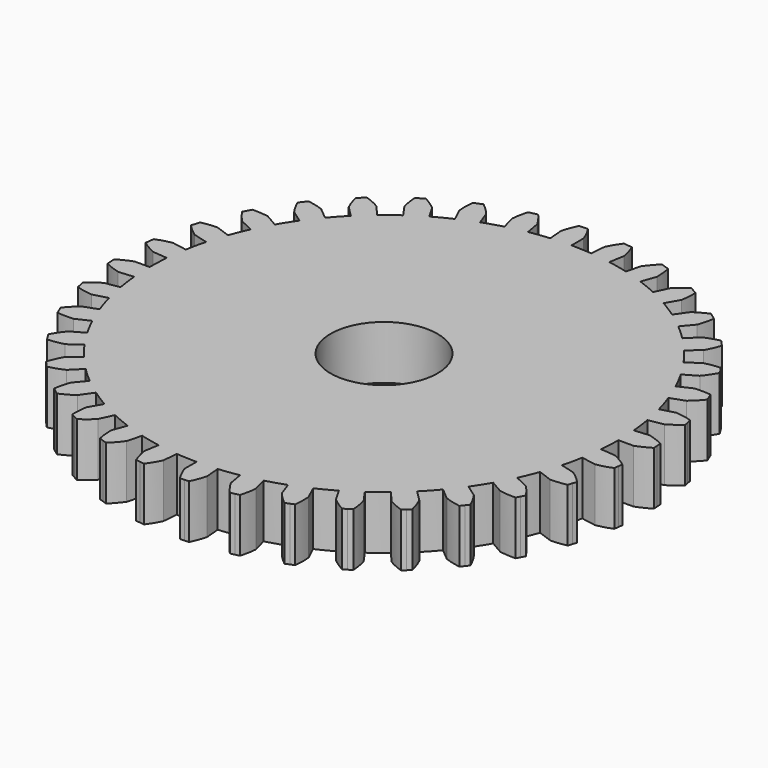
from build123d import *

# Parameters (mm, degrees)
F0_R     = 6.35
F1_DEPTH = 6.35
F2_DEPTH = 97.18073


with BuildPart() as f1:
    # F0 (on Top) → F1 (new body)
    with BuildSketch(Plane.XY):
        with BuildLine():
            Line((0, 27.800996), (0, 29.585202))
            ThreePointArc((0, 29.585202), (-0.378327, 30.478797), (-0.846404, 31.328825))
            Line((-0.846404, 31.328825), (-1.366665, 31.30611))
            Line((-1.366665, 31.30611), (-1.367043, 31.306093))
            Line((-1.367043, 31.306093), (-1.887304, 31.283378))
            ThreePointArc((-1.887304, 31.283378), (-2.279515, 30.395789), (-2.57852, 29.472621))
            Line((-2.57852, 29.472621), (-2.423016, 27.695205))
            ThreePointArc((-2.423016, 27.695205), (-3.628758, 27.563154), (-4.827592, 27.378636))
            Line((-4.827592, 27.378636), (-5.137416, 29.135736))
            ThreePointArc((-5.137416, 29.135736), (-5.665166, 29.95006), (-6.273738, 30.705893))
            Line((-6.273738, 30.705893), (-6.782151, 30.593181))
            Line((-6.782151, 30.593181), (-6.78252, 30.593099))
            Line((-6.78252, 30.593099), (-7.290933, 30.480386))
            ThreePointArc((-7.290933, 30.480386), (-7.523058, 29.538175), (-7.657214, 28.577111))
            Line((-7.657214, 28.577111), (-7.195427, 26.8537))
            Line((-7.195427, 26.8537), (-9.508501, 26.124391))
            Line((-9.508501, 26.124391), (-10.118735, 27.800996))
            ThreePointArc((-10.118735, 27.800996), (-10.779873, 28.511305), (-11.510448, 29.149978))
            Line((-11.510448, 29.149978), (-11.991565, 28.950693))
            Line((-11.991565, 28.950693), (-11.991914, 28.950549))
            Line((-11.991914, 28.950549), (-12.473031, 28.751263))
            ThreePointArc((-12.473031, 28.751263), (-12.538016, 27.783059), (-12.503247, 26.813299))
            Line((-12.503247, 26.813299), (-11.749209, 25.196259))
            ThreePointArc((-11.749209, 25.196259), (-12.837071, 24.659784), (-13.900498, 24.076369))
            Line((-13.900498, 24.076369), (-14.792601, 25.621536))
            ThreePointArc((-14.792601, 25.621536), (-15.567039, 26.206249), (-16.39742, 26.708356))
            Line((-16.39742, 26.708356), (-16.836621, 26.428554))
            Line((-16.836621, 26.428554), (-16.83694, 26.428351))
            Line((-16.83694, 26.428351), (-17.276142, 26.148548))
            ThreePointArc((-17.276142, 26.148548), (-17.172013, 25.183768), (-16.969375, 24.234779))
            Line((-16.969375, 24.234779), (-15.945996, 22.773243))
            ThreePointArc((-15.945996, 22.773243), (-16.924174, 22.056013), (-17.870136, 21.296798))
            Line((-17.870136, 21.296798), (-19.017001, 22.663579))
            ThreePointArc((-19.017001, 22.663579), (-19.881208, 23.104929), (-20.786163, 23.455214))
            Line((-20.786163, 23.455214), (-21.170106, 23.103396))
            Line((-21.170106, 23.103396), (-21.170384, 23.103141))
            Line((-21.170384, 23.103141), (-21.554327, 22.751322))
            ThreePointArc((-21.554327, 22.751322), (-21.284247, 21.819281), (-20.919897, 20.919897))
            Line((-20.919897, 20.919897), (-19.658273, 19.658273))
            ThreePointArc((-19.658273, 19.658273), (-20.497044, 18.782081), (-21.296798, 17.870136))
            Line((-21.296798, 17.870136), (-22.663579, 19.017001))
            ThreePointArc((-22.663579, 19.017001), (-23.591297, 19.301578), (-24.54333, 19.489397))
            Line((-24.54333, 19.489397), (-24.860347, 19.076253))
            Line((-24.860347, 19.076253), (-24.860577, 19.075953))
            Line((-24.860577, 19.075953), (-25.177594, 18.662809))
            ThreePointArc((-25.177594, 18.662809), (-24.74977, 17.791827), (-24.234779, 16.969375))
            Line((-24.234779, 16.969375), (-22.773243, 15.945996))
            ThreePointArc((-22.773243, 15.945996), (-23.447122, 14.937464), (-24.076369, 13.900498))
            Line((-24.076369, 13.900498), (-25.621536, 14.792601))
            ThreePointArc((-25.621536, 14.792601), (-26.584576, 14.911758), (-27.55476, 14.931405))
            Line((-27.55476, 14.931405), (-27.795219, 14.469488))
            Line((-27.795219, 14.469488), (-27.795393, 14.469153))
            Line((-27.795393, 14.469153), (-28.035852, 14.007236))
            ThreePointArc((-28.035852, 14.007236), (-27.463283, 13.223777), (-26.813299, 12.503247))
            Line((-26.813299, 12.503247), (-25.196259, 11.749209))
            ThreePointArc((-25.196259, 11.749209), (-25.684771, 10.638981), (-26.124391, 9.508501))
            Line((-26.124391, 9.508501), (-27.800996, 10.118735))
            ThreePointArc((-27.800996, 10.118735), (-28.770096, 10.068852), (-29.728953, 9.91973))
            Line((-29.728953, 9.91973), (-29.885547, 9.423075))
            Line((-29.885547, 9.423075), (-29.885661, 9.422714))
            Line((-29.885661, 9.422714), (-30.042255, 8.92606))
            ThreePointArc((-30.042255, 8.92606), (-29.342339, 8.253929), (-28.577111, 7.657214))
            Line((-28.577111, 7.657214), (-26.8537, 7.195427))
            ThreePointArc((-26.8537, 7.195427), (-27.142001, 6.017237), (-27.378636, 4.827592))
            Line((-27.378636, 4.827592), (-29.135736, 5.137416))
            ThreePointArc((-29.135736, 5.137416), (-30.081451, 4.920009), (-30.999846, 4.606648))
            Line((-30.999846, 4.606648), (-31.067818, 4.090347))
            Line((-31.067818, 4.090347), (-31.067868, 4.089972))
            Line((-31.067868, 4.089972), (-31.13584, 3.57367))
            ThreePointArc((-31.13584, 3.57367), (-30.329843, 3.033289), (-29.472621, 2.57852))
            Line((-29.472621, 2.57852), (-27.695205, 2.423016))
            ThreePointArc((-27.695205, 2.423016), (-27.774535, 1.212662), (-27.800996, 0))
            Line((-27.800996, 0), (-29.585202, 0))
            ThreePointArc((-29.585202, 0), (-30.478797, -0.378327), (-31.328825, -0.846404))
            Line((-31.328825, -0.846404), (-31.30611, -1.366665))
            Line((-31.30611, -1.366665), (-31.306093, -1.367043))
            Line((-31.306093, -1.367043), (-31.283378, -1.887304))
            ThreePointArc((-31.283378, -1.887304), (-30.395789, -2.279515), (-29.472621, -2.57852))
            Line((-29.472621, -2.57852), (-27.695205, -2.423016))
            ThreePointArc((-27.695205, -2.423016), (-27.563154, -3.628758), (-27.378636, -4.827592))
            Line((-27.378636, -4.827592), (-29.135736, -5.137416))
            ThreePointArc((-29.135736, -5.137416), (-29.95006, -5.665166), (-30.705893, -6.273738))
            Line((-30.705893, -6.273738), (-30.593181, -6.782151))
            Line((-30.593181, -6.782151), (-30.593099, -6.78252))
            Line((-30.593099, -6.78252), (-30.480386, -7.290933))
            ThreePointArc((-30.480386, -7.290933), (-29.538175, -7.523058), (-28.577111, -7.657214))
            Line((-28.577111, -7.657214), (-26.8537, -7.195427))
            ThreePointArc((-26.8537, -7.195427), (-26.514281, -8.359921), (-26.124391, -9.508501))
            Line((-26.124391, -9.508501), (-27.800996, -10.118735))
            ThreePointArc((-27.800996, -10.118735), (-28.511305, -10.779873), (-29.149978, -11.510448))
            Line((-29.149978, -11.510448), (-28.950693, -11.991565))
            Line((-28.950693, -11.991565), (-28.950549, -11.991914))
            Line((-28.950549, -11.991914), (-28.751263, -12.473031))
            ThreePointArc((-28.751263, -12.473031), (-27.783059, -12.538016), (-26.813299, -12.503247))
            Line((-26.813299, -12.503247), (-25.196259, -11.749209))
            ThreePointArc((-25.196259, -11.749209), (-24.659784, -12.837071), (-24.076369, -13.900498))
            Line((-24.076369, -13.900498), (-25.621536, -14.792601))
            ThreePointArc((-25.621536, -14.792601), (-26.206249, -15.567039), (-26.708356, -16.39742))
            Line((-26.708356, -16.39742), (-26.428554, -16.836621))
            Line((-26.428554, -16.836621), (-26.428351, -16.83694))
            Line((-26.428351, -16.83694), (-26.148548, -17.276142))
            ThreePointArc((-26.148548, -17.276142), (-25.183768, -17.172013), (-24.234779, -16.969375))
            Line((-24.234779, -16.969375), (-22.773243, -15.945996))
            ThreePointArc((-22.773243, -15.945996), (-22.056013, -16.924174), (-21.296798, -17.870136))
            Line((-21.296798, -17.870136), (-22.663579, -19.017001))
            ThreePointArc((-22.663579, -19.017001), (-23.104929, -19.881208), (-23.455214, -20.786163))
            Line((-23.455214, -20.786163), (-23.103396, -21.170106))
            Line((-23.103396, -21.170106), (-23.103141, -21.170384))
            Line((-23.103141, -21.170384), (-22.751322, -21.554327))
            ThreePointArc((-22.751322, -21.554327), (-21.819281, -21.284247), (-20.919897, -20.919897))
            Line((-20.919897, -20.919897), (-19.658273, -19.658273))
            ThreePointArc((-19.658273, -19.658273), (-18.782081, -20.497044), (-17.870136, -21.296798))
            Line((-17.870136, -21.296798), (-19.017001, -22.663579))
            ThreePointArc((-19.017001, -22.663579), (-19.301578, -23.591297), (-19.489397, -24.54333))
            Line((-19.489397, -24.54333), (-19.076253, -24.860347))
            Line((-19.076253, -24.860347), (-19.075953, -24.860577))
            Line((-19.075953, -24.860577), (-18.662809, -25.177594))
            ThreePointArc((-18.662809, -25.177594), (-17.791827, -24.74977), (-16.969375, -24.234779))
            Line((-16.969375, -24.234779), (-15.945996, -22.773243))
            ThreePointArc((-15.945996, -22.773243), (-14.937464, -23.447122), (-13.900498, -24.076369))
            Line((-13.900498, -24.076369), (-14.792601, -25.621536))
            ThreePointArc((-14.792601, -25.621536), (-14.911758, -26.584576), (-14.931405, -27.55476))
            Line((-14.931405, -27.55476), (-14.469488, -27.795219))
            Line((-14.469488, -27.795219), (-14.469153, -27.795393))
            Line((-14.469153, -27.795393), (-14.007236, -28.035852))
            ThreePointArc((-14.007236, -28.035852), (-13.223777, -27.463283), (-12.503247, -26.813299))
            Line((-12.503247, -26.813299), (-11.749209, -25.196259))
            ThreePointArc((-11.749209, -25.196259), (-10.638981, -25.684771), (-9.508501, -26.124391))
            Line((-9.508501, -26.124391), (-10.118735, -27.800996))
            ThreePointArc((-10.118735, -27.800996), (-10.068852, -28.770096), (-9.91973, -29.728953))
            Line((-9.91973, -29.728953), (-9.423075, -29.885547))
            Line((-9.423075, -29.885547), (-9.422714, -29.885661))
            Line((-9.422714, -29.885661), (-8.92606, -30.042255))
            ThreePointArc((-8.92606, -30.042255), (-8.253929, -29.342339), (-7.657214, -28.577111))
            Line((-7.657214, -28.577111), (-7.195427, -26.8537))
            ThreePointArc((-7.195427, -26.8537), (-6.017237, -27.142001), (-4.827592, -27.378636))
            Line((-4.827592, -27.378636), (-5.137416, -29.135736))
            ThreePointArc((-5.137416, -29.135736), (-4.920009, -30.081451), (-4.606648, -30.999846))
            Line((-4.606648, -30.999846), (-4.090347, -31.067818))
            Line((-4.090347, -31.067818), (-4.089972, -31.067868))
            Line((-4.089972, -31.067868), (-3.57367, -31.13584))
            ThreePointArc((-3.57367, -31.13584), (-3.033289, -30.329843), (-2.57852, -29.472621))
            Line((-2.57852, -29.472621), (-2.423016, -27.695205))
            ThreePointArc((-2.423016, -27.695205), (-1.212662, -27.774535), (0, -27.800996))
            Line((0, -27.800996), (0, -29.585202))
            ThreePointArc((0, -29.585202), (0.378327, -30.478797), (0.846404, -31.328825))
            Line((0.846404, -31.328825), (1.366665, -31.30611))
            Line((1.366665, -31.30611), (1.367043, -31.306093))
            Line((1.367043, -31.306093), (1.887304, -31.283378))
            ThreePointArc((1.887304, -31.283378), (2.279515, -30.395789), (2.57852, -29.472621))
            Line((2.57852, -29.472621), (2.423016, -27.695205))
            ThreePointArc((2.423016, -27.695205), (3.628758, -27.563154), (4.827592, -27.378636))
            Line((4.827592, -27.378636), (5.137416, -29.135736))
            ThreePointArc((5.137416, -29.135736), (5.665166, -29.95006), (6.273738, -30.705893))
            Line((6.273738, -30.705893), (6.782151, -30.593181))
            Line((6.782151, -30.593181), (6.78252, -30.593099))
            Line((6.78252, -30.593099), (7.290933, -30.480386))
            ThreePointArc((7.290933, -30.480386), (7.523058, -29.538175), (7.657214, -28.577111))
            Line((7.657214, -28.577111), (7.195427, -26.8537))
            ThreePointArc((7.195427, -26.8537), (8.359921, -26.514281), (9.508501, -26.124391))
            Line((9.508501, -26.124391), (10.118735, -27.800996))
            ThreePointArc((10.118735, -27.800996), (10.779873, -28.511305), (11.510448, -29.149978))
            Line((11.510448, -29.149978), (11.991565, -28.950693))
            Line((11.991565, -28.950693), (11.991914, -28.950549))
            Line((11.991914, -28.950549), (12.473031, -28.751263))
            ThreePointArc((12.473031, -28.751263), (12.538016, -27.783059), (12.503247, -26.813299))
            Line((12.503247, -26.813299), (11.749209, -25.196259))
            ThreePointArc((11.749209, -25.196259), (12.837071, -24.659784), (13.900498, -24.076369))
            Line((13.900498, -24.076369), (14.792601, -25.621536))
            ThreePointArc((14.792601, -25.621536), (15.567039, -26.206249), (16.39742, -26.708356))
            Line((16.39742, -26.708356), (16.836621, -26.428554))
            Line((16.836621, -26.428554), (16.83694, -26.428351))
            Line((16.83694, -26.428351), (17.276142, -26.148548))
            ThreePointArc((17.276142, -26.148548), (17.172013, -25.183768), (16.969375, -24.234779))
            Line((16.969375, -24.234779), (15.945996, -22.773243))
            ThreePointArc((15.945996, -22.773243), (16.924174, -22.056013), (17.870136, -21.296798))
            Line((17.870136, -21.296798), (19.017001, -22.663579))
            ThreePointArc((19.017001, -22.663579), (19.881208, -23.104929), (20.786163, -23.455214))
            Line((20.786163, -23.455214), (21.170106, -23.103396))
            Line((21.170106, -23.103396), (21.170384, -23.103141))
            Line((21.170384, -23.103141), (21.554327, -22.751322))
            ThreePointArc((21.554327, -22.751322), (21.284247, -21.819281), (20.919897, -20.919897))
            Line((20.919897, -20.919897), (19.658273, -19.658273))
            ThreePointArc((19.658273, -19.658273), (20.497044, -18.782081), (21.296798, -17.870136))
            Line((21.296798, -17.870136), (22.663579, -19.017001))
            ThreePointArc((22.663579, -19.017001), (23.591297, -19.301578), (24.54333, -19.489397))
            Line((24.54333, -19.489397), (24.860347, -19.076253))
            Line((24.860347, -19.076253), (24.860577, -19.075953))
            Line((24.860577, -19.075953), (25.177594, -18.662809))
            ThreePointArc((25.177594, -18.662809), (24.74977, -17.791827), (24.234779, -16.969375))
            Line((24.234779, -16.969375), (22.773243, -15.945996))
            ThreePointArc((22.773243, -15.945996), (23.447122, -14.937464), (24.076369, -13.900498))
            Line((24.076369, -13.900498), (25.621536, -14.792601))
            ThreePointArc((25.621536, -14.792601), (26.584576, -14.911758), (27.55476, -14.931405))
            Line((27.55476, -14.931405), (27.795219, -14.469488))
            Line((27.795219, -14.469488), (27.795393, -14.469153))
            Line((27.795393, -14.469153), (28.035852, -14.007236))
            ThreePointArc((28.035852, -14.007236), (27.463283, -13.223777), (26.813299, -12.503247))
            Line((26.813299, -12.503247), (25.196259, -11.749209))
            ThreePointArc((25.196259, -11.749209), (25.684771, -10.638981), (26.124391, -9.508501))
            Line((26.124391, -9.508501), (27.800996, -10.118735))
            ThreePointArc((27.800996, -10.118735), (28.770096, -10.068852), (29.728953, -9.91973))
            Line((29.728953, -9.91973), (29.885547, -9.423075))
            Line((29.885547, -9.423075), (29.885661, -9.422714))
            Line((29.885661, -9.422714), (30.042255, -8.92606))
            ThreePointArc((30.042255, -8.92606), (29.342339, -8.253929), (28.577111, -7.657214))
            Line((28.577111, -7.657214), (26.8537, -7.195427))
            ThreePointArc((26.8537, -7.195427), (27.142001, -6.017237), (27.378636, -4.827592))
            Line((27.378636, -4.827592), (29.135736, -5.137416))
            ThreePointArc((29.135736, -5.137416), (30.081451, -4.920009), (30.999846, -4.606648))
            Line((30.999846, -4.606648), (31.067818, -4.090347))
            Line((31.067818, -4.090347), (31.067868, -4.089972))
            Line((31.067868, -4.089972), (31.13584, -3.57367))
            ThreePointArc((31.13584, -3.57367), (30.329843, -3.033289), (29.472621, -2.57852))
            Line((29.472621, -2.57852), (27.695205, -2.423016))
            ThreePointArc((27.695205, -2.423016), (27.774535, -1.212662), (27.800996, 0))
            Line((27.800996, 0), (29.585202, 0))
            ThreePointArc((29.585202, 0), (30.478797, 0.378327), (31.328825, 0.846404))
            Line((31.328825, 0.846404), (31.30611, 1.366665))
            Line((31.30611, 1.366665), (31.306093, 1.367043))
            Line((31.306093, 1.367043), (31.283378, 1.887304))
            ThreePointArc((31.283378, 1.887304), (30.395789, 2.279515), (29.472621, 2.57852))
            Line((29.472621, 2.57852), (27.695205, 2.423016))
            ThreePointArc((27.695205, 2.423016), (27.563154, 3.628758), (27.378636, 4.827592))
            Line((27.378636, 4.827592), (29.135736, 5.137416))
            ThreePointArc((29.135736, 5.137416), (29.95006, 5.665166), (30.705893, 6.273738))
            Line((30.705893, 6.273738), (30.593181, 6.782151))
            Line((30.593181, 6.782151), (30.593099, 6.78252))
            Line((30.593099, 6.78252), (30.480386, 7.290933))
            ThreePointArc((30.480386, 7.290933), (29.538175, 7.523058), (28.577111, 7.657214))
            Line((28.577111, 7.657214), (26.8537, 7.195427))
            ThreePointArc((26.8537, 7.195427), (26.514281, 8.359921), (26.124391, 9.508501))
            Line((26.124391, 9.508501), (27.800996, 10.118735))
            ThreePointArc((27.800996, 10.118735), (28.511305, 10.779873), (29.149978, 11.510448))
            Line((29.149978, 11.510448), (28.950693, 11.991565))
            Line((28.950693, 11.991565), (28.950549, 11.991914))
            Line((28.950549, 11.991914), (28.751263, 12.473031))
            ThreePointArc((28.751263, 12.473031), (27.783059, 12.538016), (26.813299, 12.503247))
            Line((26.813299, 12.503247), (25.196259, 11.749209))
            ThreePointArc((25.196259, 11.749209), (24.659784, 12.837071), (24.076369, 13.900498))
            Line((24.076369, 13.900498), (25.621536, 14.792601))
            ThreePointArc((25.621536, 14.792601), (26.206249, 15.567039), (26.708356, 16.39742))
            Line((26.708356, 16.39742), (26.428554, 16.836621))
            Line((26.428554, 16.836621), (26.428351, 16.83694))
            Line((26.428351, 16.83694), (26.148548, 17.276142))
            ThreePointArc((26.148548, 17.276142), (25.183768, 17.172013), (24.234779, 16.969375))
            Line((24.234779, 16.969375), (22.773243, 15.945996))
            ThreePointArc((22.773243, 15.945996), (22.056013, 16.924174), (21.296798, 17.870136))
            Line((21.296798, 17.870136), (22.663579, 19.017001))
            ThreePointArc((22.663579, 19.017001), (23.104929, 19.881208), (23.455214, 20.786163))
            Line((23.455214, 20.786163), (23.103396, 21.170106))
            Line((23.103396, 21.170106), (23.103141, 21.170384))
            Line((23.103141, 21.170384), (22.751322, 21.554327))
            ThreePointArc((22.751322, 21.554327), (21.819281, 21.284247), (20.919897, 20.919897))
            Line((20.919897, 20.919897), (19.658273, 19.658273))
            ThreePointArc((19.658273, 19.658273), (18.782081, 20.497044), (17.870136, 21.296798))
            Line((17.870136, 21.296798), (19.017001, 22.663579))
            ThreePointArc((19.017001, 22.663579), (19.301578, 23.591297), (19.489397, 24.54333))
            Line((19.489397, 24.54333), (19.076253, 24.860347))
            Line((19.076253, 24.860347), (19.075953, 24.860577))
            Line((19.075953, 24.860577), (18.662809, 25.177594))
            ThreePointArc((18.662809, 25.177594), (17.791827, 24.74977), (16.969375, 24.234779))
            Line((16.969375, 24.234779), (15.945996, 22.773243))
            ThreePointArc((15.945996, 22.773243), (14.937464, 23.447122), (13.900498, 24.076369))
            Line((13.900498, 24.076369), (14.792601, 25.621536))
            ThreePointArc((14.792601, 25.621536), (14.911758, 26.584576), (14.931405, 27.55476))
            Line((14.931405, 27.55476), (14.469488, 27.795219))
            Line((14.469488, 27.795219), (14.469153, 27.795393))
            Line((14.469153, 27.795393), (14.007236, 28.035852))
            ThreePointArc((14.007236, 28.035852), (13.223777, 27.463283), (12.503247, 26.813299))
            Line((12.503247, 26.813299), (11.749209, 25.196259))
            ThreePointArc((11.749209, 25.196259), (10.638981, 25.684771), (9.508501, 26.124391))
            Line((9.508501, 26.124391), (10.118735, 27.800996))
            ThreePointArc((10.118735, 27.800996), (10.068852, 28.770096), (9.91973, 29.728953))
            Line((9.91973, 29.728953), (9.423075, 29.885547))
            Line((9.423075, 29.885547), (9.422714, 29.885661))
            Line((9.422714, 29.885661), (8.92606, 30.042255))
            ThreePointArc((8.92606, 30.042255), (8.253929, 29.342339), (7.657214, 28.577111))
            Line((7.657214, 28.577111), (7.195427, 26.8537))
            ThreePointArc((7.195427, 26.8537), (6.017237, 27.142001), (4.827592, 27.378636))
            Line((4.827592, 27.378636), (5.137416, 29.135736))
            ThreePointArc((5.137416, 29.135736), (4.920009, 30.081451), (4.606648, 30.999846))
            Line((4.606648, 30.999846), (4.090347, 31.067818))
            Line((4.090347, 31.067818), (4.089972, 31.067868))
            Line((4.089972, 31.067868), (3.57367, 31.13584))
            ThreePointArc((3.57367, 31.13584), (3.033289, 30.329843), (2.57852, 29.472621))
            Line((2.57852, 29.472621), (2.423016, 27.695205))
            ThreePointArc((2.423016, 27.695205), (1.212662, 27.774535), (0, 27.800996))
        make_face()
        Circle(F0_R, mode=Mode.SUBTRACT)
        with BuildLine():
            Line((-9.508501, 26.124391), (-7.195427, 26.8537))
            ThreePointArc((-7.195427, 26.8537), (-8.359921, 26.514281), (-9.508501, 26.124391))
        make_face()
        with BuildLine():
            Line((0, 27.800996), (0, 29.585202))
            ThreePointArc((0, 29.585202), (-0.378327, 30.478797), (-0.846404, 31.328825))
            Line((-0.846404, 31.328825), (-1.366665, 31.30611))
            Line((-1.366665, 31.30611), (-1.367043, 31.306093))
            Line((-1.367043, 31.306093), (-1.887304, 31.283378))
            ThreePointArc((-1.887304, 31.283378), (-2.279515, 30.395789), (-2.57852, 29.472621))
            Line((-2.57852, 29.472621), (-2.423016, 27.695205))
            ThreePointArc((-2.423016, 27.695205), (-3.628758, 27.563154), (-4.827592, 27.378636))
            Line((-4.827592, 27.378636), (-5.137416, 29.135736))
            ThreePointArc((-5.137416, 29.135736), (-5.665166, 29.95006), (-6.273738, 30.705893))
            Line((-6.273738, 30.705893), (-6.782151, 30.593181))
            Line((-6.782151, 30.593181), (-6.78252, 30.593099))
            Line((-6.78252, 30.593099), (-7.290933, 30.480386))
            ThreePointArc((-7.290933, 30.480386), (-7.523058, 29.538175), (-7.657214, 28.577111))
            Line((-7.657214, 28.577111), (-7.195427, 26.8537))
            Line((-7.195427, 26.8537), (-9.508501, 26.124391))
            Line((-9.508501, 26.124391), (-10.118735, 27.800996))
            ThreePointArc((-10.118735, 27.800996), (-10.779873, 28.511305), (-11.510448, 29.149978))
            Line((-11.510448, 29.149978), (-11.991565, 28.950693))
            Line((-11.991565, 28.950693), (-11.991914, 28.950549))
            Line((-11.991914, 28.950549), (-12.473031, 28.751263))
            ThreePointArc((-12.473031, 28.751263), (-12.538016, 27.783059), (-12.503247, 26.813299))
            Line((-12.503247, 26.813299), (-11.749209, 25.196259))
            ThreePointArc((-11.749209, 25.196259), (-12.837071, 24.659784), (-13.900498, 24.076369))
            Line((-13.900498, 24.076369), (-14.792601, 25.621536))
            ThreePointArc((-14.792601, 25.621536), (-15.567039, 26.206249), (-16.39742, 26.708356))
            Line((-16.39742, 26.708356), (-16.836621, 26.428554))
            Line((-16.836621, 26.428554), (-16.83694, 26.428351))
            Line((-16.83694, 26.428351), (-17.276142, 26.148548))
            ThreePointArc((-17.276142, 26.148548), (-17.172013, 25.183768), (-16.969375, 24.234779))
            Line((-16.969375, 24.234779), (-15.945996, 22.773243))
            ThreePointArc((-15.945996, 22.773243), (-16.924174, 22.056013), (-17.870136, 21.296798))
            Line((-17.870136, 21.296798), (-19.017001, 22.663579))
            ThreePointArc((-19.017001, 22.663579), (-19.881208, 23.104929), (-20.786163, 23.455214))
            Line((-20.786163, 23.455214), (-21.170106, 23.103396))
            Line((-21.170106, 23.103396), (-21.170384, 23.103141))
            Line((-21.170384, 23.103141), (-21.554327, 22.751322))
            ThreePointArc((-21.554327, 22.751322), (-21.284247, 21.819281), (-20.919897, 20.919897))
            Line((-20.919897, 20.919897), (-19.658273, 19.658273))
            ThreePointArc((-19.658273, 19.658273), (-20.497044, 18.782081), (-21.296798, 17.870136))
            Line((-21.296798, 17.870136), (-22.663579, 19.017001))
            ThreePointArc((-22.663579, 19.017001), (-23.591297, 19.301578), (-24.54333, 19.489397))
            Line((-24.54333, 19.489397), (-24.860347, 19.076253))
            Line((-24.860347, 19.076253), (-24.860577, 19.075953))
            Line((-24.860577, 19.075953), (-25.177594, 18.662809))
            ThreePointArc((-25.177594, 18.662809), (-24.74977, 17.791827), (-24.234779, 16.969375))
            Line((-24.234779, 16.969375), (-22.773243, 15.945996))
            ThreePointArc((-22.773243, 15.945996), (-23.447122, 14.937464), (-24.076369, 13.900498))
            Line((-24.076369, 13.900498), (-25.621536, 14.792601))
            ThreePointArc((-25.621536, 14.792601), (-26.584576, 14.911758), (-27.55476, 14.931405))
            Line((-27.55476, 14.931405), (-27.795219, 14.469488))
            Line((-27.795219, 14.469488), (-27.795393, 14.469153))
            Line((-27.795393, 14.469153), (-28.035852, 14.007236))
            ThreePointArc((-28.035852, 14.007236), (-27.463283, 13.223777), (-26.813299, 12.503247))
            Line((-26.813299, 12.503247), (-25.196259, 11.749209))
            ThreePointArc((-25.196259, 11.749209), (-25.684771, 10.638981), (-26.124391, 9.508501))
            Line((-26.124391, 9.508501), (-27.800996, 10.118735))
            ThreePointArc((-27.800996, 10.118735), (-28.770096, 10.068852), (-29.728953, 9.91973))
            Line((-29.728953, 9.91973), (-29.885547, 9.423075))
            Line((-29.885547, 9.423075), (-29.885661, 9.422714))
            Line((-29.885661, 9.422714), (-30.042255, 8.92606))
            ThreePointArc((-30.042255, 8.92606), (-29.342339, 8.253929), (-28.577111, 7.657214))
            Line((-28.577111, 7.657214), (-26.8537, 7.195427))
            ThreePointArc((-26.8537, 7.195427), (-27.142001, 6.017237), (-27.378636, 4.827592))
            Line((-27.378636, 4.827592), (-29.135736, 5.137416))
            ThreePointArc((-29.135736, 5.137416), (-30.081451, 4.920009), (-30.999846, 4.606648))
            Line((-30.999846, 4.606648), (-31.067818, 4.090347))
            Line((-31.067818, 4.090347), (-31.067868, 4.089972))
            Line((-31.067868, 4.089972), (-31.13584, 3.57367))
            ThreePointArc((-31.13584, 3.57367), (-30.329843, 3.033289), (-29.472621, 2.57852))
            Line((-29.472621, 2.57852), (-27.695205, 2.423016))
            ThreePointArc((-27.695205, 2.423016), (-27.774535, 1.212662), (-27.800996, 0))
            Line((-27.800996, 0), (-29.585202, 0))
            ThreePointArc((-29.585202, 0), (-30.478797, -0.378327), (-31.328825, -0.846404))
            Line((-31.328825, -0.846404), (-31.30611, -1.366665))
            Line((-31.30611, -1.366665), (-31.306093, -1.367043))
            Line((-31.306093, -1.367043), (-31.283378, -1.887304))
            ThreePointArc((-31.283378, -1.887304), (-30.395789, -2.279515), (-29.472621, -2.57852))
            Line((-29.472621, -2.57852), (-27.695205, -2.423016))
            ThreePointArc((-27.695205, -2.423016), (-27.563154, -3.628758), (-27.378636, -4.827592))
            Line((-27.378636, -4.827592), (-29.135736, -5.137416))
            ThreePointArc((-29.135736, -5.137416), (-29.95006, -5.665166), (-30.705893, -6.273738))
            Line((-30.705893, -6.273738), (-30.593181, -6.782151))
            Line((-30.593181, -6.782151), (-30.593099, -6.78252))
            Line((-30.593099, -6.78252), (-30.480386, -7.290933))
            ThreePointArc((-30.480386, -7.290933), (-29.538175, -7.523058), (-28.577111, -7.657214))
            Line((-28.577111, -7.657214), (-26.8537, -7.195427))
            ThreePointArc((-26.8537, -7.195427), (-26.514281, -8.359921), (-26.124391, -9.508501))
            Line((-26.124391, -9.508501), (-27.800996, -10.118735))
            ThreePointArc((-27.800996, -10.118735), (-28.511305, -10.779873), (-29.149978, -11.510448))
            Line((-29.149978, -11.510448), (-28.950693, -11.991565))
            Line((-28.950693, -11.991565), (-28.950549, -11.991914))
            Line((-28.950549, -11.991914), (-28.751263, -12.473031))
            ThreePointArc((-28.751263, -12.473031), (-27.783059, -12.538016), (-26.813299, -12.503247))
            Line((-26.813299, -12.503247), (-25.196259, -11.749209))
            ThreePointArc((-25.196259, -11.749209), (-24.659784, -12.837071), (-24.076369, -13.900498))
            Line((-24.076369, -13.900498), (-25.621536, -14.792601))
            ThreePointArc((-25.621536, -14.792601), (-26.206249, -15.567039), (-26.708356, -16.39742))
            Line((-26.708356, -16.39742), (-26.428554, -16.836621))
            Line((-26.428554, -16.836621), (-26.428351, -16.83694))
            Line((-26.428351, -16.83694), (-26.148548, -17.276142))
            ThreePointArc((-26.148548, -17.276142), (-25.183768, -17.172013), (-24.234779, -16.969375))
            Line((-24.234779, -16.969375), (-22.773243, -15.945996))
            ThreePointArc((-22.773243, -15.945996), (-22.056013, -16.924174), (-21.296798, -17.870136))
            Line((-21.296798, -17.870136), (-22.663579, -19.017001))
            ThreePointArc((-22.663579, -19.017001), (-23.104929, -19.881208), (-23.455214, -20.786163))
            Line((-23.455214, -20.786163), (-23.103396, -21.170106))
            Line((-23.103396, -21.170106), (-23.103141, -21.170384))
            Line((-23.103141, -21.170384), (-22.751322, -21.554327))
            ThreePointArc((-22.751322, -21.554327), (-21.819281, -21.284247), (-20.919897, -20.919897))
            Line((-20.919897, -20.919897), (-19.658273, -19.658273))
            ThreePointArc((-19.658273, -19.658273), (-18.782081, -20.497044), (-17.870136, -21.296798))
            Line((-17.870136, -21.296798), (-19.017001, -22.663579))
            ThreePointArc((-19.017001, -22.663579), (-19.301578, -23.591297), (-19.489397, -24.54333))
            Line((-19.489397, -24.54333), (-19.076253, -24.860347))
            Line((-19.076253, -24.860347), (-19.075953, -24.860577))
            Line((-19.075953, -24.860577), (-18.662809, -25.177594))
            ThreePointArc((-18.662809, -25.177594), (-17.791827, -24.74977), (-16.969375, -24.234779))
            Line((-16.969375, -24.234779), (-15.945996, -22.773243))
            ThreePointArc((-15.945996, -22.773243), (-14.937464, -23.447122), (-13.900498, -24.076369))
            Line((-13.900498, -24.076369), (-14.792601, -25.621536))
            ThreePointArc((-14.792601, -25.621536), (-14.911758, -26.584576), (-14.931405, -27.55476))
            Line((-14.931405, -27.55476), (-14.469488, -27.795219))
            Line((-14.469488, -27.795219), (-14.469153, -27.795393))
            Line((-14.469153, -27.795393), (-14.007236, -28.035852))
            ThreePointArc((-14.007236, -28.035852), (-13.223777, -27.463283), (-12.503247, -26.813299))
            Line((-12.503247, -26.813299), (-11.749209, -25.196259))
            ThreePointArc((-11.749209, -25.196259), (-10.638981, -25.684771), (-9.508501, -26.124391))
            Line((-9.508501, -26.124391), (-10.118735, -27.800996))
            ThreePointArc((-10.118735, -27.800996), (-10.068852, -28.770096), (-9.91973, -29.728953))
            Line((-9.91973, -29.728953), (-9.423075, -29.885547))
            Line((-9.423075, -29.885547), (-9.422714, -29.885661))
            Line((-9.422714, -29.885661), (-8.92606, -30.042255))
            ThreePointArc((-8.92606, -30.042255), (-8.253929, -29.342339), (-7.657214, -28.577111))
            Line((-7.657214, -28.577111), (-7.195427, -26.8537))
            ThreePointArc((-7.195427, -26.8537), (-6.017237, -27.142001), (-4.827592, -27.378636))
            Line((-4.827592, -27.378636), (-5.137416, -29.135736))
            ThreePointArc((-5.137416, -29.135736), (-4.920009, -30.081451), (-4.606648, -30.999846))
            Line((-4.606648, -30.999846), (-4.090347, -31.067818))
            Line((-4.090347, -31.067818), (-4.089972, -31.067868))
            Line((-4.089972, -31.067868), (-3.57367, -31.13584))
            ThreePointArc((-3.57367, -31.13584), (-3.033289, -30.329843), (-2.57852, -29.472621))
            Line((-2.57852, -29.472621), (-2.423016, -27.695205))
            ThreePointArc((-2.423016, -27.695205), (-1.212662, -27.774535), (0, -27.800996))
            Line((0, -27.800996), (0, -29.585202))
            ThreePointArc((0, -29.585202), (0.378327, -30.478797), (0.846404, -31.328825))
            Line((0.846404, -31.328825), (1.366665, -31.30611))
            Line((1.366665, -31.30611), (1.367043, -31.306093))
            Line((1.367043, -31.306093), (1.887304, -31.283378))
            ThreePointArc((1.887304, -31.283378), (2.279515, -30.395789), (2.57852, -29.472621))
            Line((2.57852, -29.472621), (2.423016, -27.695205))
            ThreePointArc((2.423016, -27.695205), (3.628758, -27.563154), (4.827592, -27.378636))
            Line((4.827592, -27.378636), (5.137416, -29.135736))
            ThreePointArc((5.137416, -29.135736), (5.665166, -29.95006), (6.273738, -30.705893))
            Line((6.273738, -30.705893), (6.782151, -30.593181))
            Line((6.782151, -30.593181), (6.78252, -30.593099))
            Line((6.78252, -30.593099), (7.290933, -30.480386))
            ThreePointArc((7.290933, -30.480386), (7.523058, -29.538175), (7.657214, -28.577111))
            Line((7.657214, -28.577111), (7.195427, -26.8537))
            ThreePointArc((7.195427, -26.8537), (8.359921, -26.514281), (9.508501, -26.124391))
            Line((9.508501, -26.124391), (10.118735, -27.800996))
            ThreePointArc((10.118735, -27.800996), (10.779873, -28.511305), (11.510448, -29.149978))
            Line((11.510448, -29.149978), (11.991565, -28.950693))
            Line((11.991565, -28.950693), (11.991914, -28.950549))
            Line((11.991914, -28.950549), (12.473031, -28.751263))
            ThreePointArc((12.473031, -28.751263), (12.538016, -27.783059), (12.503247, -26.813299))
            Line((12.503247, -26.813299), (11.749209, -25.196259))
            ThreePointArc((11.749209, -25.196259), (12.837071, -24.659784), (13.900498, -24.076369))
            Line((13.900498, -24.076369), (14.792601, -25.621536))
            ThreePointArc((14.792601, -25.621536), (15.567039, -26.206249), (16.39742, -26.708356))
            Line((16.39742, -26.708356), (16.836621, -26.428554))
            Line((16.836621, -26.428554), (16.83694, -26.428351))
            Line((16.83694, -26.428351), (17.276142, -26.148548))
            ThreePointArc((17.276142, -26.148548), (17.172013, -25.183768), (16.969375, -24.234779))
            Line((16.969375, -24.234779), (15.945996, -22.773243))
            ThreePointArc((15.945996, -22.773243), (16.924174, -22.056013), (17.870136, -21.296798))
            Line((17.870136, -21.296798), (19.017001, -22.663579))
            ThreePointArc((19.017001, -22.663579), (19.881208, -23.104929), (20.786163, -23.455214))
            Line((20.786163, -23.455214), (21.170106, -23.103396))
            Line((21.170106, -23.103396), (21.170384, -23.103141))
            Line((21.170384, -23.103141), (21.554327, -22.751322))
            ThreePointArc((21.554327, -22.751322), (21.284247, -21.819281), (20.919897, -20.919897))
            Line((20.919897, -20.919897), (19.658273, -19.658273))
            ThreePointArc((19.658273, -19.658273), (20.497044, -18.782081), (21.296798, -17.870136))
            Line((21.296798, -17.870136), (22.663579, -19.017001))
            ThreePointArc((22.663579, -19.017001), (23.591297, -19.301578), (24.54333, -19.489397))
            Line((24.54333, -19.489397), (24.860347, -19.076253))
            Line((24.860347, -19.076253), (24.860577, -19.075953))
            Line((24.860577, -19.075953), (25.177594, -18.662809))
            ThreePointArc((25.177594, -18.662809), (24.74977, -17.791827), (24.234779, -16.969375))
            Line((24.234779, -16.969375), (22.773243, -15.945996))
            ThreePointArc((22.773243, -15.945996), (23.447122, -14.937464), (24.076369, -13.900498))
            Line((24.076369, -13.900498), (25.621536, -14.792601))
            ThreePointArc((25.621536, -14.792601), (26.584576, -14.911758), (27.55476, -14.931405))
            Line((27.55476, -14.931405), (27.795219, -14.469488))
            Line((27.795219, -14.469488), (27.795393, -14.469153))
            Line((27.795393, -14.469153), (28.035852, -14.007236))
            ThreePointArc((28.035852, -14.007236), (27.463283, -13.223777), (26.813299, -12.503247))
            Line((26.813299, -12.503247), (25.196259, -11.749209))
            ThreePointArc((25.196259, -11.749209), (25.684771, -10.638981), (26.124391, -9.508501))
            Line((26.124391, -9.508501), (27.800996, -10.118735))
            ThreePointArc((27.800996, -10.118735), (28.770096, -10.068852), (29.728953, -9.91973))
            Line((29.728953, -9.91973), (29.885547, -9.423075))
            Line((29.885547, -9.423075), (29.885661, -9.422714))
            Line((29.885661, -9.422714), (30.042255, -8.92606))
            ThreePointArc((30.042255, -8.92606), (29.342339, -8.253929), (28.577111, -7.657214))
            Line((28.577111, -7.657214), (26.8537, -7.195427))
            ThreePointArc((26.8537, -7.195427), (27.142001, -6.017237), (27.378636, -4.827592))
            Line((27.378636, -4.827592), (29.135736, -5.137416))
            ThreePointArc((29.135736, -5.137416), (30.081451, -4.920009), (30.999846, -4.606648))
            Line((30.999846, -4.606648), (31.067818, -4.090347))
            Line((31.067818, -4.090347), (31.067868, -4.089972))
            Line((31.067868, -4.089972), (31.13584, -3.57367))
            ThreePointArc((31.13584, -3.57367), (30.329843, -3.033289), (29.472621, -2.57852))
            Line((29.472621, -2.57852), (27.695205, -2.423016))
            ThreePointArc((27.695205, -2.423016), (27.774535, -1.212662), (27.800996, 0))
            Line((27.800996, 0), (29.585202, 0))
            ThreePointArc((29.585202, 0), (30.478797, 0.378327), (31.328825, 0.846404))
            Line((31.328825, 0.846404), (31.30611, 1.366665))
            Line((31.30611, 1.366665), (31.306093, 1.367043))
            Line((31.306093, 1.367043), (31.283378, 1.887304))
            ThreePointArc((31.283378, 1.887304), (30.395789, 2.279515), (29.472621, 2.57852))
            Line((29.472621, 2.57852), (27.695205, 2.423016))
            ThreePointArc((27.695205, 2.423016), (27.563154, 3.628758), (27.378636, 4.827592))
            Line((27.378636, 4.827592), (29.135736, 5.137416))
            ThreePointArc((29.135736, 5.137416), (29.95006, 5.665166), (30.705893, 6.273738))
            Line((30.705893, 6.273738), (30.593181, 6.782151))
            Line((30.593181, 6.782151), (30.593099, 6.78252))
            Line((30.593099, 6.78252), (30.480386, 7.290933))
            ThreePointArc((30.480386, 7.290933), (29.538175, 7.523058), (28.577111, 7.657214))
            Line((28.577111, 7.657214), (26.8537, 7.195427))
            ThreePointArc((26.8537, 7.195427), (26.514281, 8.359921), (26.124391, 9.508501))
            Line((26.124391, 9.508501), (27.800996, 10.118735))
            ThreePointArc((27.800996, 10.118735), (28.511305, 10.779873), (29.149978, 11.510448))
            Line((29.149978, 11.510448), (28.950693, 11.991565))
            Line((28.950693, 11.991565), (28.950549, 11.991914))
            Line((28.950549, 11.991914), (28.751263, 12.473031))
            ThreePointArc((28.751263, 12.473031), (27.783059, 12.538016), (26.813299, 12.503247))
            Line((26.813299, 12.503247), (25.196259, 11.749209))
            ThreePointArc((25.196259, 11.749209), (24.659784, 12.837071), (24.076369, 13.900498))
            Line((24.076369, 13.900498), (25.621536, 14.792601))
            ThreePointArc((25.621536, 14.792601), (26.206249, 15.567039), (26.708356, 16.39742))
            Line((26.708356, 16.39742), (26.428554, 16.836621))
            Line((26.428554, 16.836621), (26.428351, 16.83694))
            Line((26.428351, 16.83694), (26.148548, 17.276142))
            ThreePointArc((26.148548, 17.276142), (25.183768, 17.172013), (24.234779, 16.969375))
            Line((24.234779, 16.969375), (22.773243, 15.945996))
            ThreePointArc((22.773243, 15.945996), (22.056013, 16.924174), (21.296798, 17.870136))
            Line((21.296798, 17.870136), (22.663579, 19.017001))
            ThreePointArc((22.663579, 19.017001), (23.104929, 19.881208), (23.455214, 20.786163))
            Line((23.455214, 20.786163), (23.103396, 21.170106))
            Line((23.103396, 21.170106), (23.103141, 21.170384))
            Line((23.103141, 21.170384), (22.751322, 21.554327))
            ThreePointArc((22.751322, 21.554327), (21.819281, 21.284247), (20.919897, 20.919897))
            Line((20.919897, 20.919897), (19.658273, 19.658273))
            ThreePointArc((19.658273, 19.658273), (18.782081, 20.497044), (17.870136, 21.296798))
            Line((17.870136, 21.296798), (19.017001, 22.663579))
            ThreePointArc((19.017001, 22.663579), (19.301578, 23.591297), (19.489397, 24.54333))
            Line((19.489397, 24.54333), (19.076253, 24.860347))
            Line((19.076253, 24.860347), (19.075953, 24.860577))
            Line((19.075953, 24.860577), (18.662809, 25.177594))
            ThreePointArc((18.662809, 25.177594), (17.791827, 24.74977), (16.969375, 24.234779))
            Line((16.969375, 24.234779), (15.945996, 22.773243))
            ThreePointArc((15.945996, 22.773243), (14.937464, 23.447122), (13.900498, 24.076369))
            Line((13.900498, 24.076369), (14.792601, 25.621536))
            ThreePointArc((14.792601, 25.621536), (14.911758, 26.584576), (14.931405, 27.55476))
            Line((14.931405, 27.55476), (14.469488, 27.795219))
            Line((14.469488, 27.795219), (14.469153, 27.795393))
            Line((14.469153, 27.795393), (14.007236, 28.035852))
            ThreePointArc((14.007236, 28.035852), (13.223777, 27.463283), (12.503247, 26.813299))
            Line((12.503247, 26.813299), (11.749209, 25.196259))
            ThreePointArc((11.749209, 25.196259), (10.638981, 25.684771), (9.508501, 26.124391))
            Line((9.508501, 26.124391), (10.118735, 27.800996))
            ThreePointArc((10.118735, 27.800996), (10.068852, 28.770096), (9.91973, 29.728953))
            Line((9.91973, 29.728953), (9.423075, 29.885547))
            Line((9.423075, 29.885547), (9.422714, 29.885661))
            Line((9.422714, 29.885661), (8.92606, 30.042255))
            ThreePointArc((8.92606, 30.042255), (8.253929, 29.342339), (7.657214, 28.577111))
            Line((7.657214, 28.577111), (7.195427, 26.8537))
            ThreePointArc((7.195427, 26.8537), (6.017237, 27.142001), (4.827592, 27.378636))
            Line((4.827592, 27.378636), (5.137416, 29.135736))
            ThreePointArc((5.137416, 29.135736), (4.920009, 30.081451), (4.606648, 30.999846))
            Line((4.606648, 30.999846), (4.090347, 31.067818))
            Line((4.090347, 31.067818), (4.089972, 31.067868))
            Line((4.089972, 31.067868), (3.57367, 31.13584))
            ThreePointArc((3.57367, 31.13584), (3.033289, 30.329843), (2.57852, 29.472621))
            Line((2.57852, 29.472621), (2.423016, 27.695205))
            ThreePointArc((2.423016, 27.695205), (1.212662, 27.774535), (0, 27.800996))
        make_face()
        Circle(F0_R, mode=Mode.SUBTRACT)
        Circle(F0_R)
    extrude(amount=F1_DEPTH)

    # F0 (on Top) → F2 (cut)
    with BuildSketch(Plane.XY):
        Circle(F0_R)
    extrude(amount=F2_DEPTH, mode=Mode.SUBTRACT)


solid = f1.part
